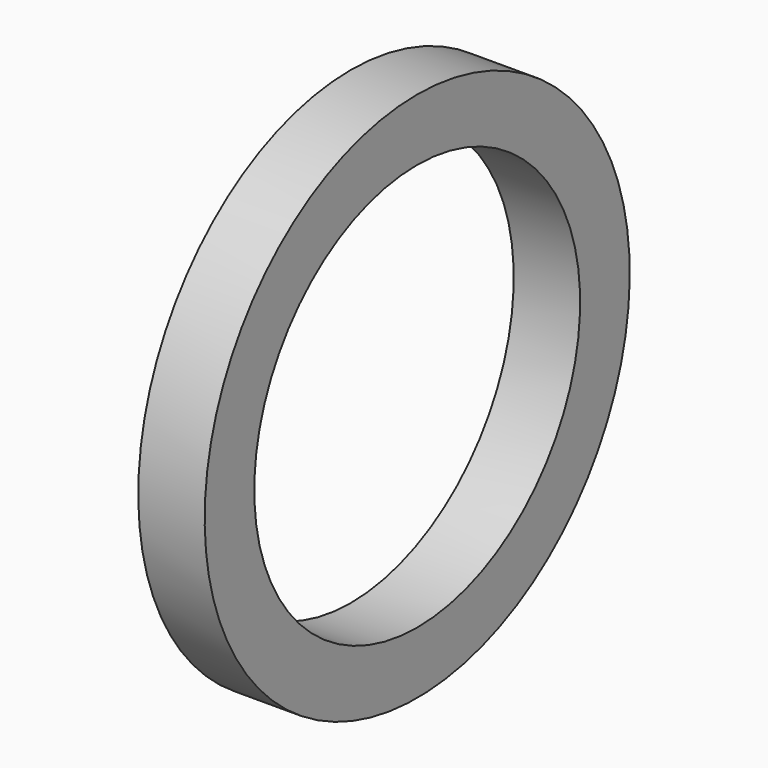
from build123d import *

# Parameters (mm, degrees)
F0_R     = 6
F1_DEPTH = 1.5
F2_R     = 4.6
F3_DEPTH = 1.501
F4_ANGLE = 90
F6_ANGLE = 90


with BuildPart() as f1:
    # F0 (on Front) → F1 (new body)
    with BuildSketch(Plane.XZ):
        Circle(F0_R)
    extrude(amount=-F1_DEPTH)

    # F2 (on face) → F3 (cut, through all)
    with BuildSketch(Plane.XZ):
        Circle(F2_R)
    extrude(amount=-F3_DEPTH, mode=Mode.SUBTRACT)


with BuildPart() as f1_1:
    # F4: moved
    add(f1.part.rotate(Axis((0, 0, 0), (0, -1, 0)), F4_ANGLE))


with BuildPart() as f1_2:
    # F6: moved
    add(f1_1.part.rotate(Axis((0, 0, 0.289831), (0, 0, 1)), F6_ANGLE))


solid = f1_2.part
